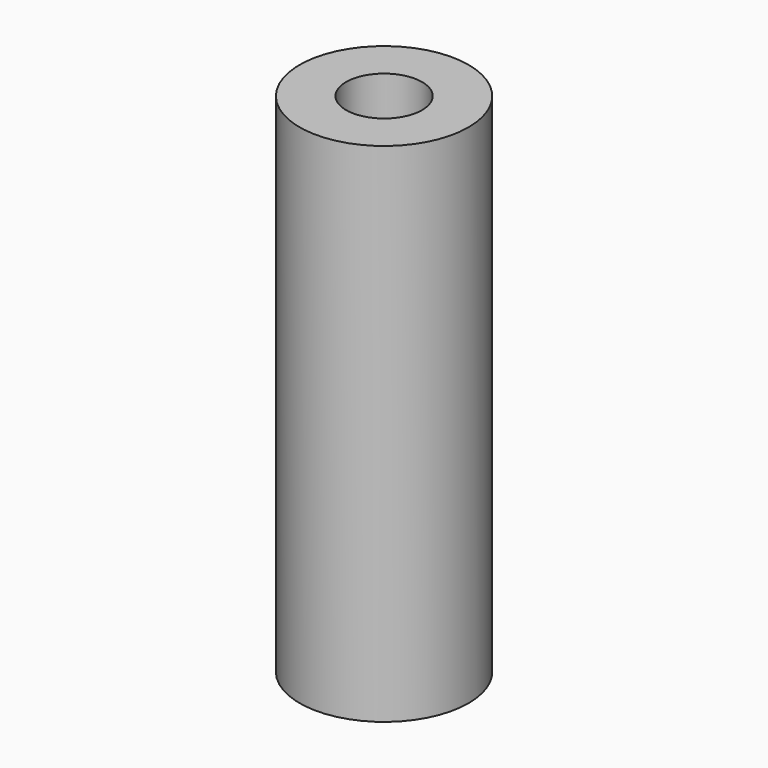
from build123d import *

# Parameters (mm, degrees)
SKETCH_R   = 5
SKETCH_R_2 = 2.25
PAD_DEPTH  = 30


with BuildPart() as part:
    # Sketch → Pad (new body)
    with BuildSketch(Plane.XY):
        Circle(SKETCH_R)
        Circle(SKETCH_R_2, mode=Mode.SUBTRACT)
    extrude(amount=PAD_DEPTH)


solid = part.part
